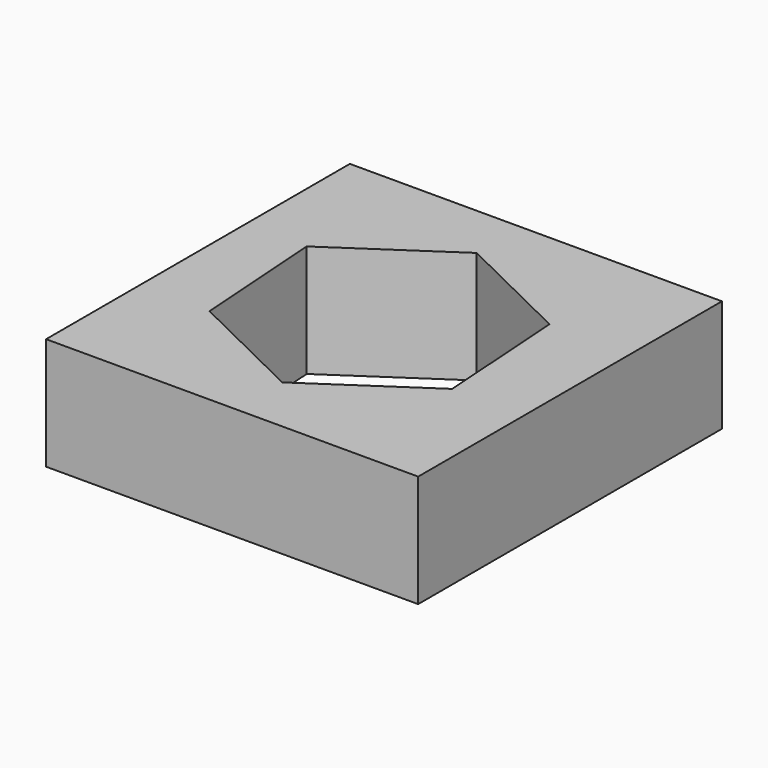
from build123d import *

# Parameters (mm, degrees)
F0_W          = 82.8472673893
F0_H          = 84.5430567861
F1_DEPTH      = 25
F3_DEPTH      = 215.0975316763
F3_TAPER      = -3
F3_DEPTH_BACK = 25


with BuildPart() as f1:
    # F0 (on Top) → F1 (new body)
    with BuildSketch(Plane.XY):
        with Locations((41.4236336946, 42.271528393)):
            Rectangle(F0_W, F0_H)
    extrude(amount=F1_DEPTH)

    # F2 (on face) → F3 (cut, two sides)
    with BuildSketch(Plane.XY.offset(25)) as f3_sk:
        Polygon((66.8386592076, 29.4964735825), (64.8125708103, 59.0836033225), (38.1763206318, 72.1225241702), (13.5661588504, 55.5743152778), (15.5922472477, 25.9871855378), (42.2284974263, 12.9482646901), align=None)
    extrude(amount=F3_DEPTH, taper=F3_TAPER, mode=Mode.SUBTRACT)
    extrude(f3_sk.sketch, amount=-F3_DEPTH_BACK, mode=Mode.SUBTRACT)


solid = f1.part
